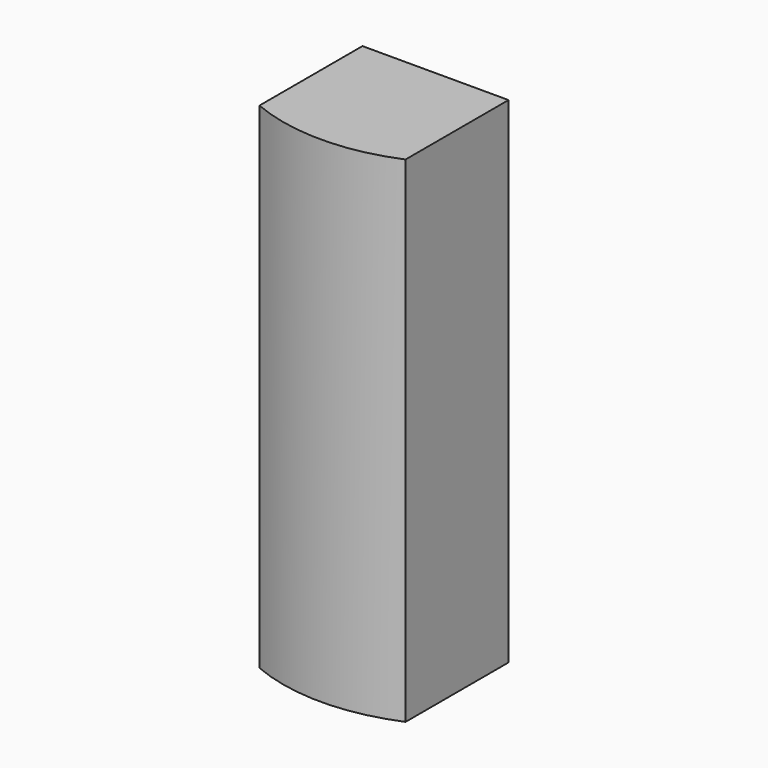
from build123d import *

# Parameters (mm, degrees)
F0_W     = 590
F0_H     = 2000
F1_DEPTH = 580
F2_W     = 590
F2_H     = 520.0027227402
F3_DEPTH = 2000


with BuildPart() as f1:
    # F0 (on Front) → F1 (new body)
    with BuildSketch(Plane.XZ):
        with Locations((295, 1000)):
            Rectangle(F0_W, F0_H)
    extrude(amount=F1_DEPTH)

    # F2 (on face) → F3 (intersect, through all)
    with BuildSketch(Plane.XY.offset(2000)):
        with BuildLine():
            Line((590, -520.0027227402), (0, -520.0027227402))
            ThreePointArc((0, -520.0027227402), (295, -580), (590, -520.0027227402))
        make_face()
        with Locations((295, -260.0013613701)):
            Rectangle(F2_W, F2_H)
    extrude(amount=-F3_DEPTH, mode=Mode.INTERSECT)


solid = f1.part
